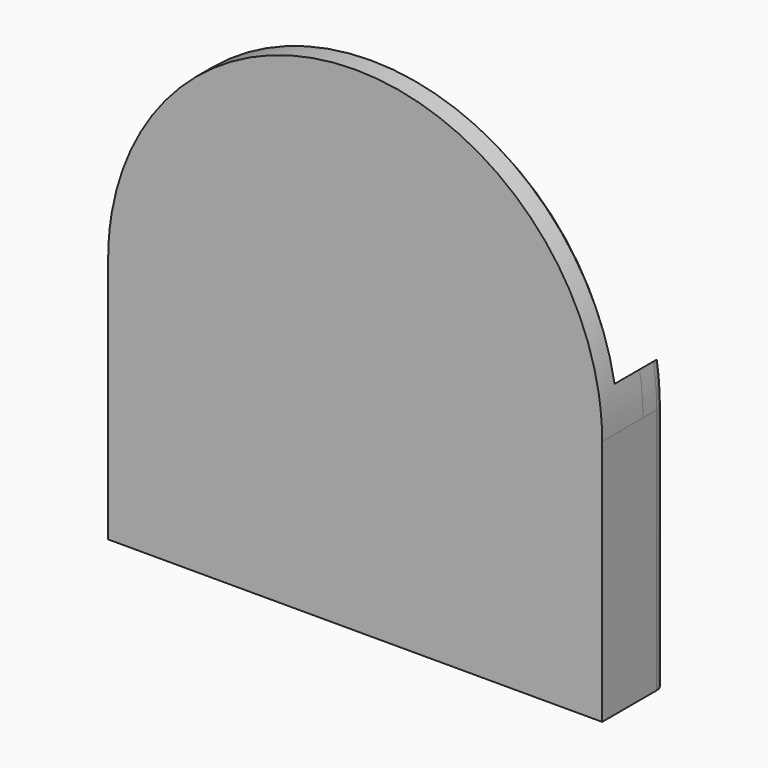
from build123d import *

# Parameters (mm, degrees)
F1_DEPTH = 2.5
F3_DEPTH = 1.5
F5_DEPTH = 3
F7_DEPTH = 7
F8_SIZE  = 1.25
F9_R     = 1


with BuildPart() as f1:
    # F0 (on Front) → F1 (new body)
    with BuildSketch(Plane.XZ):
        with BuildLine():
            ThreePointArc((17.8, 0), (0, -17.8), (-17.8, 0))
            Line((-17.8, 0), (-21.4427768058, 3.6427768058))
            ThreePointArc((-21.4427768058, 3.6427768058), (0, -21.75), (21.4427768058, 3.6427768058))
            Line((21.4427768058, 3.6427768058), (17.8, 0))
        make_face()
    extrude(amount=F1_DEPTH)

    # F2 (on face) → F3 (join)
    with BuildSketch(Plane.XZ.offset(2.5)):
        with BuildLine():
            ThreePointArc((-21.4427768058, 3.6427768058), (-1.8278545448, -21.6730581082), (21.75, 0))
            ThreePointArc((21.75, 0), (21.6730581082, 1.8278545448), (21.4427768058, 3.6427768058))
            Line((21.4427768058, 3.6427768058), (19.8904504002, 2.0904504002))
            ThreePointArc((19.8904504002, 2.0904504002), (19.9725938226, 1.0466594468), (20, 0))
            ThreePointArc((20, 0), (-1.0466594468, -19.9725938226), (-19.8904504002, 2.0904504002))
            Line((-19.8904504002, 2.0904504002), (-21.4427768058, 3.6427768058))
        make_face()
    extrude(amount=F3_DEPTH)

    # F4 (on face) → F5 (join)
    with BuildSketch(Plane.XZ.offset(4)):
        with BuildLine():
            ThreePointArc((-21.4427768058, 3.6427768058), (-1.8278545448, -21.6730581082), (21.75, 0))
            ThreePointArc((21.75, 0), (21.6730581082, 1.8278545448), (21.4427768058, 3.6427768058))
            Line((21.4427768058, 3.6427768058), (19.8904504002, 2.0904504002))
            ThreePointArc((19.8904504002, 2.0904504002), (0, -20), (-19.8904504002, 2.0904504002))
            Line((-19.8904504002, 2.0904504002), (-21.4427768058, 3.6427768058))
        make_face()
        with BuildLine():
            Line((19.8904504002, 2.0904504002), (21.4427768058, 3.6427768058))
            ThreePointArc((21.4427768058, 3.6427768058), (0, 21.75), (-21.4427768058, 3.6427768058))
            Line((-21.4427768058, 3.6427768058), (-19.8904504002, 2.0904504002))
            ThreePointArc((-19.8904504002, 2.0904504002), (0, -20), (19.8904504002, 2.0904504002))
        make_face()
    extrude(amount=F5_DEPTH)

    # F6 (on face) → F7 (join, through all)
    with BuildSketch(Plane.XZ.offset(7)):
        with BuildLine():
            ThreePointArc((-6.4e-09, -21.75), (-15.3795724931, -15.3795724885), (-21.75, 0))
            Line((-21.75, 0), (-21.75, -21.75))
            Line((-21.75, -21.75), (-6.4e-09, -21.75))
        make_face()
        with BuildLine():
            Line((21.75, -21.75), (21.75, 0))
            ThreePointArc((21.75, 0), (15.3795724885, -15.3795724931), (-6.4e-09, -21.75))
            Line((-6.4e-09, -21.75), (21.75, -21.75))
        make_face()
    extrude(amount=-F7_DEPTH)

    # F8
    f8_edges = [f1.edges().sort_by_distance(p)[0] for p in [
        (0, -4, 21.75),
        (18.845225, -2.5, 1.045225),
        (0, -2.5, -17.8),
        (-18.845225, -2.5, 1.045225),
    ]]
    chamfer(f8_edges, length=F8_SIZE)

    # F9
    f9_edges = [f1.edges().sort_by_distance(p)[0] for p in [
        (21.75, 0, -10.875),
        (-21.75, 0, -10.875),
    ]]
    fillet(f9_edges, radius=F9_R)


solid = f1.part
